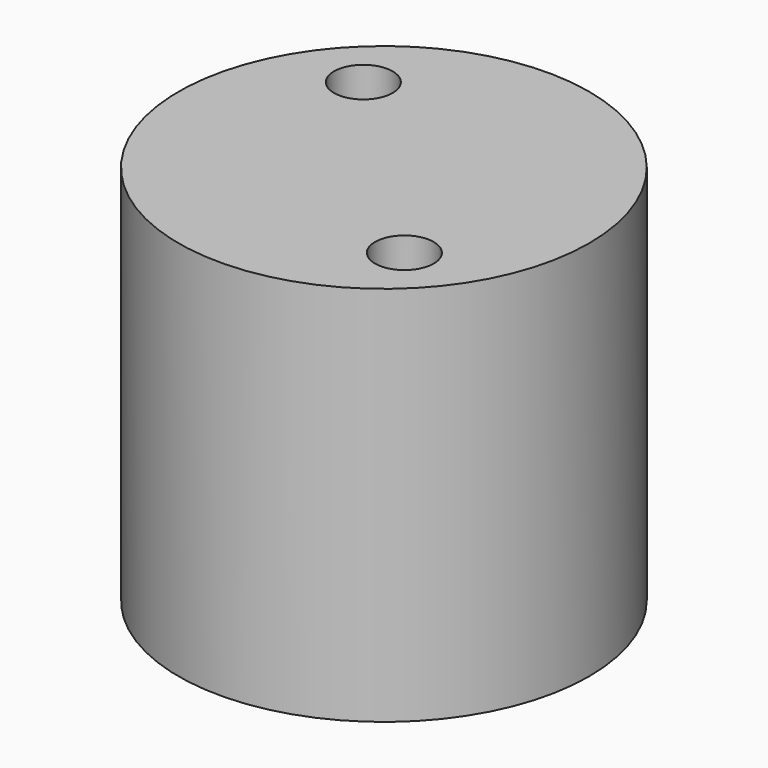
from build123d import *

# Parameters (mm, degrees)
CYLINDER1799_R              = 3
CYLINDER1799_DEPTH          = 20
CYLINDER1788_R              = 1
CYLINDER1788_DEPTH          = 20
CYLINDER1789_R              = 1
CYLINDER1789_DEPTH          = 20
COMPOUND878_PLACEMENT_ANGLE = 90
CYLINDER1941_R              = 7
CYLINDER1941_DEPTH          = 13


with BuildPart() as obj1:
    # Cylinder1799 → Cylinder1799 (new body)
    with BuildSketch(Plane.XY.offset(69)):
        Circle(CYLINDER1799_R)
    extrude(amount=CYLINDER1799_DEPTH)


with BuildPart() as obj2:
    # Cylinder1788 → Cylinder1788 (new body)
    with BuildSketch(Plane(origin=(-3.5, -3.5, 0), x_dir=(1, 0, 0), z_dir=(0, 0, 1))):
        Circle(CYLINDER1788_R)
    extrude(amount=CYLINDER1788_DEPTH)


with BuildPart() as compound878:
    # Cylinder1789 → Cylinder1789 (new body)
    with BuildSketch(Plane(origin=(3.5, 3.5, 0), x_dir=(1, 0, 0), z_dir=(0, 0, 1))):
        Circle(CYLINDER1789_R)
    extrude(amount=CYLINDER1789_DEPTH)

    # Compound878: union obj2
    add(obj2.part)


with BuildPart() as compound878_1:
    # Compound878 placement: moved
    add(compound878.part.moved(Location((0, 0, 78))).rotate(Axis((0, 0, 78), (0, 0, 1)), COMPOUND878_PLACEMENT_ANGLE))


with BuildPart() as cut667:
    # Cylinder1941 → Cylinder1941 (new body)
    with BuildSketch(Plane.XY.offset(-27.5)):
        Circle(CYLINDER1941_R)
    extrude(amount=CYLINDER1941_DEPTH)


with BuildPart() as cut667_1:
    # Compound876 placement: moved
    add(cut667.part.moved(Location((0, 0, 107))))

    # Cut714: cut Compound878
    add(compound878_1.part, mode=Mode.SUBTRACT)

    # Cut667: cut obj1
    add(obj1.part, mode=Mode.SUBTRACT)


solid = cut667_1.part
